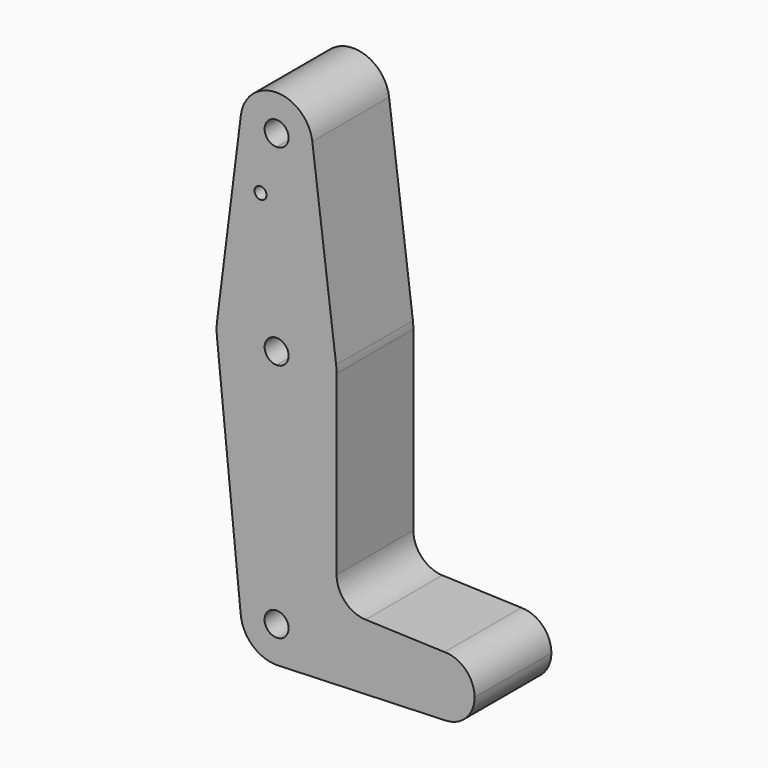
from build123d import *

# Parameters (mm, degrees)
F0_R     = 1.5875
F1_DEPTH = 25.4


with BuildPart() as f1:
    # F0 (on Front) → F1 (new body)
    with BuildSketch(Plane.XZ):
        with BuildLine():
            ThreePointArc((-44.7390819472, 41.2750016461), (-44.7348827118, 41.341553676), (-44.7334821429, 41.4082233443))
            Line((-44.7334821429, 41.4082233443), (-44.7334821429, 41.275))
            ThreePointArc((-44.7334821429, 41.275), (-37.9982900521, 44.0648079092), (-35.2084821429, 50.8))
            ThreePointArc((-35.2084821429, 50.8), (-35.2271772486, 51.396483242), (-35.2831891786, 51.990625))
            ThreePointArc((-35.2831891786, 51.990625), (-44.7334821429, 60.325), (-54.1837751071, 51.990625))
            ThreePointArc((-54.1837751071, 51.990625), (-51.8790837955, 44.5019048894), (-44.7390819472, 41.2750016461))
        make_face()
        with BuildLine():
            ThreePointArc((-41.5584821429, 50.8), (-42.4884181126, 48.5549359697), (-44.7334821429, 47.625))
            ThreePointArc((-44.7334821429, 47.625), (-46.9785461731, 53.0450640303), (-41.5584821429, 50.8))
        make_face(mode=Mode.SUBTRACT)
        with BuildLine():
            ThreePointArc((-35.2084821429, 50.8), (-37.9982900521, 44.0648079092), (-44.7334821429, 41.275))
            Line((-44.7334821429, 41.275), (-44.7334821429, 15.875))
            ThreePointArc((-44.7334821429, 15.875), (-34.2331566271, 11.90625), (-28.9829938692, 1.984375))
            Line((-28.9829938692, 1.984375), (-35.2831891786, 51.990625))
            ThreePointArc((-35.2831891786, 51.990625), (-35.2271772486, 51.396483242), (-35.2084821429, 50.8))
        make_face()
        with BuildLine():
            Line((-44.7334821429, 15.875), (-44.7334821429, 41.275))
            ThreePointArc((-44.7334821429, 41.275), (-44.7362820451, 41.2750004115), (-44.7390819472, 41.2750016461))
            ThreePointArc((-44.7390819472, 41.2750016461), (-51.8790837955, 44.5019048894), (-54.1837751071, 51.990625))
            Line((-54.1837751071, 51.990625), (-60.4839704165, 1.984375))
            ThreePointArc((-60.4839704165, 1.984375), (-55.2338076586, 11.90625), (-44.7334821429, 15.875))
        make_face()
        with Locations((-48.9732250571, 35.5329811573)):
            Circle(F0_R, mode=Mode.SUBTRACT)
        with BuildLine():
            ThreePointArc((-28.9829938692, 1.984375), (-34.2331566271, 11.90625), (-44.7334821429, 15.875))
            Line((-44.7334821429, 15.875), (-44.7334821429, 3.175))
            ThreePointArc((-44.7334821429, 3.175), (-42.4884181126, 2.2450640303), (-41.5584821429, 0))
            ThreePointArc((-41.5584821429, 0), (-42.4884181126, -2.2450640303), (-44.7334821429, -3.175))
            Line((-44.7334821429, -3.175), (-44.7334821429, -15.875))
            ThreePointArc((-44.7334821429, -15.875), (-33.5081619915, -11.2253201513), (-28.8584821429, 0))
            ThreePointArc((-28.8584821429, 0), (-28.8896406525, 0.9941387366), (-28.9829938692, 1.984375))
        make_face()
        with BuildLine():
            Line((-44.7334821429, 3.175), (-44.7334821429, 15.875))
            ThreePointArc((-44.7334821429, 15.875), (-55.2338076586, 11.90625), (-60.4839704165, 1.984375))
            ThreePointArc((-60.4839704165, 1.984375), (-60.6072259583, 0.1997054867), (-60.5289077069, -1.5875))
            ThreePointArc((-60.5289077069, -1.5875), (-55.3827558857, -11.7732150983), (-44.7334821429, -15.875))
            Line((-44.7334821429, -15.875), (-44.7334821429, -3.175))
            ThreePointArc((-44.7334821429, -3.175), (-47.9084821429, 0), (-44.7334821429, 3.175))
        make_face()
        with BuildLine():
            Line((-28.8584821429, -46.8677527116), (-28.8584821429, 0))
            ThreePointArc((-28.8584821429, 0), (-33.5081619915, -11.2253201513), (-44.7334821429, -15.875))
            Line((-44.7334821429, -15.875), (-44.7334821429, -53.975))
            ThreePointArc((-44.7334821429, -53.975), (-44.7300940156, -53.9750006026), (-44.7267058887, -53.9750024104))
            ThreePointArc((-44.7267058887, -53.9750024104), (-44.3934690624, -53.9810706429), (-44.060648545, -53.9987937634))
            ThreePointArc((-44.060648545, -53.9987937634), (-37.7644662504, -57.0070467051), (-35.2084821429, -63.5))
            Line((-35.2084821429, -63.5), (-8.2209821429, -63.5))
            ThreePointArc((-8.2209821429, -63.5), (-5.8961422185, -57.8873399243), (-0.2834821429, -55.5625))
            Line((-0.2834821429, -55.5625), (-21.1931293796, -54.8128481856))
            ThreePointArc((-21.1931293796, -54.8128481856), (-26.6297449166, -52.3877657341), (-28.8584821429, -46.8677527116))
        make_face()
        with BuildLine():
            ThreePointArc((-44.7334821429, -15.875), (-55.3827558857, -11.7732150983), (-60.5289077069, -1.5875))
            Line((-60.5289077069, -1.5875), (-54.2107374813, -64.4525))
            ThreePointArc((-54.2107374813, -64.4525), (-51.7974112018, -57.1104357543), (-44.7334821429, -53.975))
            Line((-44.7334821429, -53.975), (-44.7334821429, -15.875))
        make_face()
        with BuildLine():
            ThreePointArc((-44.7334821429, -53.975), (-51.7974112018, -57.1104357543), (-54.2107374813, -64.4525))
            ThreePointArc((-54.2107374813, -64.4525), (-50.9958655245, -70.6769199091), (-44.3933035714, -73.0189234444))
            ThreePointArc((-44.3933035714, -73.0189234444), (-37.8790738572, -70.1138273378), (-35.2084821429, -63.5))
            Line((-35.2084821429, -63.5), (-41.5584821429, -63.5))
            ThreePointArc((-41.5584821429, -63.5), (-46.9785461731, -65.7450640303), (-44.7334821429, -60.325))
            Line((-44.7334821429, -60.325), (-44.7334821429, -53.975))
        make_face()
        with BuildLine():
            ThreePointArc((-35.2084821429, -63.5), (-37.8790738572, -70.1138273378), (-44.3933035714, -73.0189234444))
            Line((-44.3933035714, -73.0189234444), (0, -71.4324362036))
            ThreePointArc((0, -71.4324362036), (-5.7950049243, -69.2120069047), (-8.2209821429, -63.5))
            Line((-8.2209821429, -63.5), (-35.2084821429, -63.5))
        make_face()
        with BuildLine():
            ThreePointArc((7.6540178571, -63.5), (5.3291779328, -57.8873399243), (-0.2834821429, -55.5625))
            ThreePointArc((-0.2834821429, -55.5625), (-5.8961422185, -57.8873399243), (-8.2209821429, -63.5))
            ThreePointArc((-8.2209821429, -63.5), (-5.7950049243, -69.2120069047), (0, -71.4324362036))
            ThreePointArc((0, -71.4324362036), (5.4285247619, -69.0115227815), (7.6540178571, -63.5))
        make_face()
        with BuildLine():
            ThreePointArc((-44.7267058887, -53.9750024104), (-44.7300940156, -53.9750006026), (-44.7334821429, -53.975))
            Line((-44.7334821429, -53.975), (-44.7334821429, -60.325))
            ThreePointArc((-44.7334821429, -60.325), (-42.4884181126, -61.2549359697), (-41.5584821429, -63.5))
            Line((-41.5584821429, -63.5), (-35.2084821429, -63.5))
            ThreePointArc((-35.2084821429, -63.5), (-37.7644662504, -57.0070467051), (-44.060648545, -53.9987937634))
            Line((-44.060648545, -53.9987937634), (-44.7267058887, -53.9750024104))
        make_face()
    extrude(amount=F1_DEPTH)


solid = f1.part
